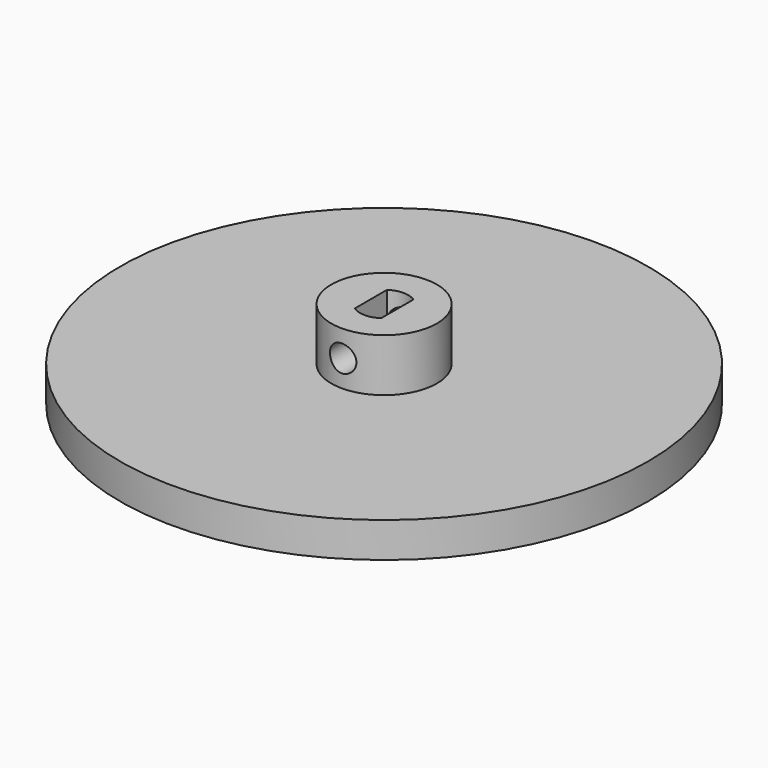
from build123d import *

# Parameters (mm, degrees)
F0_R     = 30
F1_DEPTH = 4
F2_R     = 6
F3_DEPTH = 6
F4_R     = 1.5
F5_DEPTH = 12.5
F6_W     = 3
F6_H     = 4.6
F7_DEPTH = 9.4


with BuildPart() as f1:
    # F0 (on Top) → F1 (new body)
    with BuildSketch(Plane.XY):
        Circle(F0_R)
    extrude(amount=F1_DEPTH)

    # F2 (on face) → F3 (join)
    with BuildSketch(Plane.XY.offset(4)):
        Circle(F2_R)
    extrude(amount=F3_DEPTH)

    # F4 (on Front) → F5 (cut, symmetric)
    with BuildSketch(Plane.XZ):
        with Locations((0, 7)):
            Circle(F4_R)
    extrude(amount=F5_DEPTH, both=True, mode=Mode.SUBTRACT)

    # F6 (on face) → F7 (cut)
    with BuildSketch(Plane.XY.offset(10)):
        with BuildLine():
            ThreePointArc((-1.5, -2.3), (0, -2.745184), (1.5, -2.3))
            Line((1.5, -2.3), (-1.5, -2.3))
        make_face()
        Rectangle(F6_W, F6_H)
        with BuildLine():
            Line((-1.5, 2.3), (1.5, 2.3))
            ThreePointArc((1.5, 2.3), (0, 2.745906), (-1.5, 2.3))
        make_face()
    extrude(amount=-F7_DEPTH, mode=Mode.SUBTRACT)


solid = f1.part
